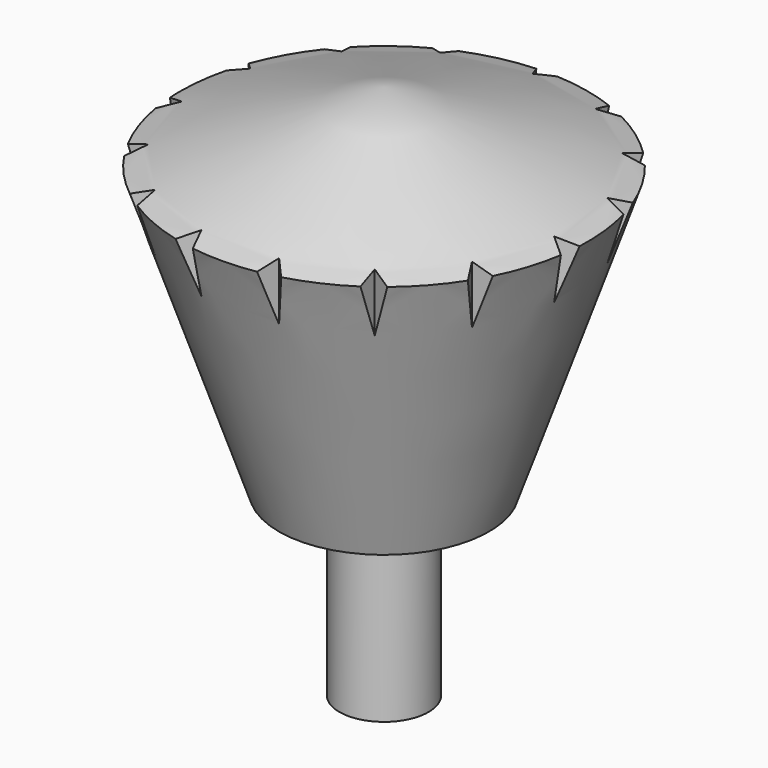
from build123d import *

# Parameters (mm, degrees)
F0_W     = 3.175
F0_H     = 12.7
F4_DEPTH = 25.4


with BuildPart() as f1:
    # F0 (on Front) → F1 (revolve)
    with BuildSketch(Plane.XZ):
        Polygon((-3.175, 0), (0, 0), (0, 25.4), (-14.490464, 20.426942), (-7.480035, 0), align=None)
        with Locations((-1.5875, -6.35)):
            Rectangle(F0_W, F0_H)
    revolve(axis=Axis((0, 0, 12.7), (0, 0, 1)))

    # F3 (on offset) → F4 (cut)
    with BuildSketch(Plane.XY.offset(25.4)):
        Polygon((-2.321808, 17.121961), (0, 13.217989), (2.321808, 17.121961), align=None)
        Polygon((5.361183, 12.081927), (9.066876, 14.70864), (4.822371, 16.592079), align=None)
        Polygon((9.800797, 8.869025), (14.253382, 9.766958), (11.137602, 13.210079), align=None)
        Polygon((12.555691, 4.13157), (16.989782, 3.14637), (15.538319, 7.557313), align=None)
        Polygon((13.152306, -1.316087), (16.805701, -4.015067), (17.268056, 0.605473), align=None)
        Polygon((11.488088, -6.537513), (13.732781, -10.486329), (16.029476, -6.450445), align=None)
        Polygon((7.849109, -10.635165), (8.299245, -15.155028), (12.035488, -12.397556), align=None)
        Polygon((2.860897, -12.90467), (1.439099, -17.218634), (5.972642, -16.213571), align=None)
        Polygon((-2.619094, -12.95591), (-5.668423, -16.322418), (-1.116878, -17.242533), align=None)
        Polygon((-7.648871, -10.780075), (-11.801563, -12.620438), (-8.014412, -15.307565), align=None)
        Polygon((-11.363835, -6.751184), (-15.906058, -6.74905), (-13.534297, -10.741283), align=None)
        Polygon((-13.125397, -1.56179), (-17.276358, 0.282475), (-16.727686, -4.328613), align=None)
        Polygon((-12.630751, 3.896071), (-15.676916, 7.265443), (-17.045646, 2.82813), align=None)
        Polygon((-9.964925, 8.684211), (-11.382668, 12.999508), (-14.433521, 9.498728), align=None)
        Polygon((-5.586164, 11.979567), (-5.131781, 16.499005), (-9.340326, 14.536528), align=None)
    extrude(amount=-F4_DEPTH, mode=Mode.SUBTRACT)


solid = f1.part
